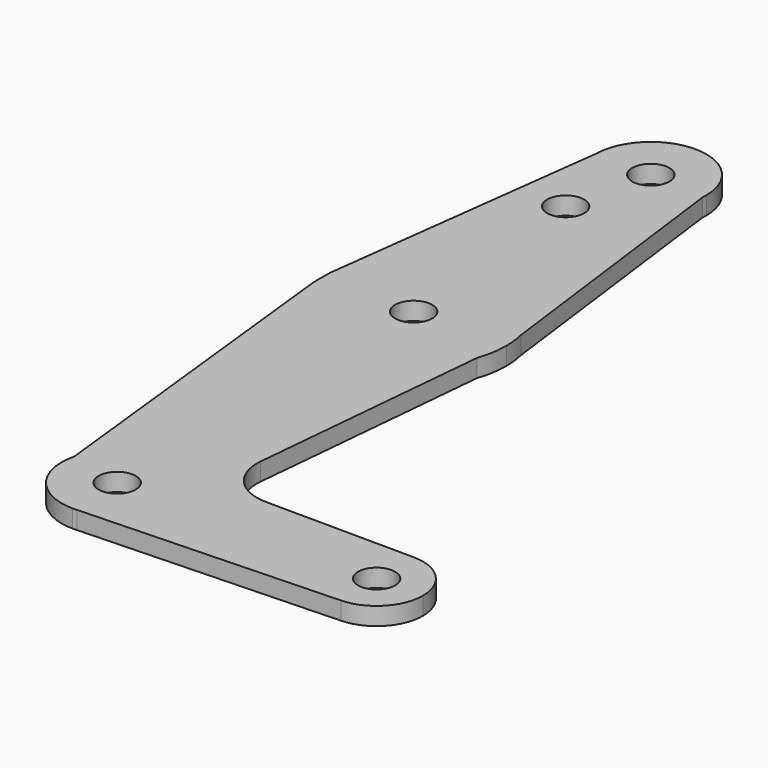
from build123d import *

# Parameters (mm, degrees)
F0_R     = 3.175
F1_DEPTH = 3.048


with BuildPart() as f1:
    # F0 (on Top) → F1 (new body)
    with BuildSketch(Plane.XY):
        with BuildLine():
            ThreePointArc((9.525, 114.3), (0.14395, 123.823912), (-9.520649, 114.587868))
            ThreePointArc((-9.520649, 114.587868), (-0.535581, 104.79007), (9.492768, 113.517068))
            ThreePointArc((9.492768, 113.517068), (9.516939, 113.908203), (9.525, 114.3))
        make_face()
        with Locations((0, 114.3)):
            Circle(F0_R, mode=Mode.SUBTRACT)
        with BuildLine():
            Line((-9.520649, 114.587868), (-15.713958, 65.755468))
            ThreePointArc((-15.713958, 65.755468), (-0.703254, 79.359415), (15.452647, 67.137488))
            Line((15.452647, 67.137488), (9.492768, 113.517068))
            ThreePointArc((9.492768, 113.517068), (-0.535581, 104.79007), (-9.520649, 114.587868))
        make_face()
        with Locations((-3.175, 100.0252)):
            Circle(F0_R, mode=Mode.SUBTRACT)
        with BuildLine():
            Line((-15.779489, 65.238779), (-15.779489, 61.761221))
            ThreePointArc((-15.779489, 61.761221), (-1.781346, 47.72526), (14.994367, 58.286115))
            ThreePointArc((14.994367, 58.286115), (15.653293, 60.856134), (15.875, 63.5))
            ThreePointArc((15.875, 63.5), (15.769058, 65.330963), (15.452647, 67.137488))
            ThreePointArc((15.452647, 67.137488), (-0.703254, 79.359415), (-15.713958, 65.755468))
            Line((-15.713958, 65.755468), (-15.779489, 65.238779))
        make_face()
        with Locations((0, 63.5)):
            Circle(F0_R, mode=Mode.SUBTRACT)
        with BuildLine():
            ThreePointArc((-9.23214, 2.343762), (1.180994, 9.451501), (9.525, 0))
            ThreePointArc((9.525, 0), (6.970557, -6.491299), (0.677344, -9.500886))
            Line((0.677344, -9.500886), (44.732405, -7.932475))
            ThreePointArc((44.732405, -7.932475), (36.51336, -0.116834), (44.498789, 7.93735))
            Line((44.498789, 7.93735), (18.996134, 8.094108))
            ThreePointArc((18.996134, 8.094108), (13.152067, 10.707585), (11.129055, 16.781365))
            Line((11.129055, 16.781365), (14.994367, 58.286115))
            ThreePointArc((14.994367, 58.286115), (-1.781346, 47.72526), (-15.779489, 61.761221))
            Line((-15.779489, 61.761221), (-9.23214, 2.343762))
        make_face()
        with BuildLine():
            ThreePointArc((0.677344, -9.500886), (6.970557, -6.491299), (9.525, 0))
            ThreePointArc((9.525, 0), (1.180994, 9.451501), (-9.23214, 2.343762))
            ThreePointArc((-9.23214, 2.343762), (-7.51831, -5.848132), (0, -9.525))
            Line((0, -9.525), (0.677344, -9.500886))
        make_face()
        Circle(F0_R, mode=Mode.SUBTRACT)
        with BuildLine():
            ThreePointArc((44.498789, 7.93735), (36.51336, -0.116834), (44.732405, -7.932475))
            ThreePointArc((44.732405, -7.932475), (50.161633, -5.51191), (52.3875, 0))
            ThreePointArc((52.3875, 0), (50.079883, 5.595384), (44.498789, 7.93735))
        make_face()
        with Locations((44.45, 0)):
            Circle(F0_R, mode=Mode.SUBTRACT)
    extrude(amount=F1_DEPTH)


solid = f1.part
